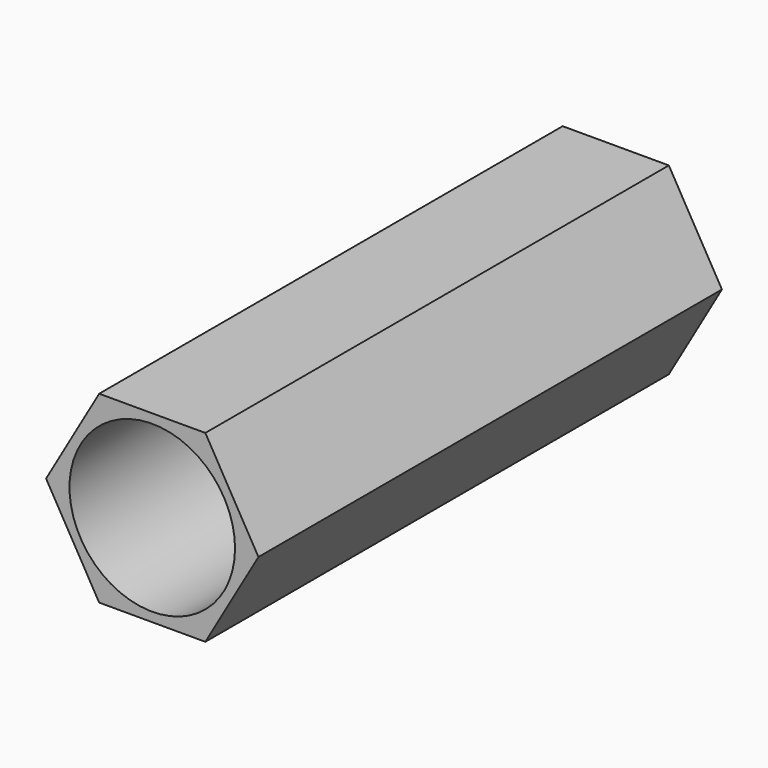
from build123d import *

# Parameters (mm, degrees)
F1_DEPTH = 35
F2_R     = 5
F3_DEPTH = 52.2


with BuildPart() as f1:
    # F0 (on Front) → F1 (new body)
    with BuildSketch(Plane.XZ):
        Polygon((3.207181, 5.555), (-3.207181, 5.555), (-6.414361, 0), (-3.207181, -5.555), (3.207181, -5.555), (6.414361, 0), align=None)
    extrude(amount=F1_DEPTH)

    # F2 (on Front) → F3 (cut)
    with BuildSketch(Plane.XZ):
        Circle(F2_R)
    extrude(amount=F3_DEPTH, mode=Mode.SUBTRACT)


solid = f1.part
